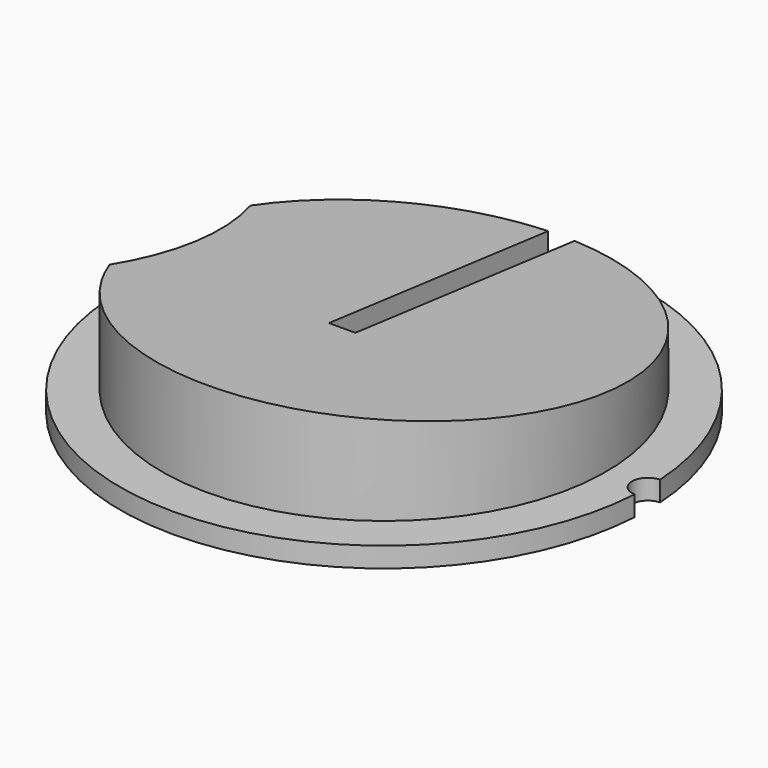
from build123d import *

# Parameters (mm, degrees)
F1_DEPTH = 2.413
F3_DEPTH = 25.4
F5_DEPTH = 31.75
F7_DEPTH = 25.4


with BuildPart() as f1:
    # F0 (on Top) → F1 (new body)
    with BuildSketch(Plane.XY):
        with BuildLine():
            ThreePointArc((31.629235, -1.904139), (29.7815, 0), (31.629235, 1.904139))
            ThreePointArc((31.629235, 1.904139), (0, 31.6865), (-31.629235, 1.904139))
            ThreePointArc((-31.629235, 1.904139), (-29.7815, 0), (-31.629235, -1.904139))
            ThreePointArc((-31.629235, -1.904139), (0, -31.6865), (31.629235, -1.904139))
        make_face()
    extrude(amount=F1_DEPTH)

    # F2 (on face) → F3 (join)
    with BuildSketch(Plane.XY.offset(2.413)):
        with BuildLine():
            ThreePointArc((-24.485298, 10.571618), (-22.5425, 0), (-24.485298, -10.571618))
            ThreePointArc((-24.485298, -10.571618), (26.67, 0), (-24.485298, 10.571618))
        make_face()
    extrude(amount=F3_DEPTH)

    # F4 (on Right) → F5 (cut, symmetric)
    with BuildSketch(Plane.YZ):
        Polygon((-28.575, 36.80041), (-28.575, 13.97), (28.575, 7.62), (28.575, 36.80041), align=None)
    extrude(amount=F5_DEPTH, both=True, mode=Mode.SUBTRACT)

    # F6 (on face) → F7 (cut)
    with BuildSketch(Plane(origin=(0, 0, 0), x_dir=(1, 0, 0), z_dir=(0, 0, -1))):
        with BuildLine():
            Line((-1.5875, 6.2865), (-1.5875, -31.646708))
            ThreePointArc((-1.5875, -31.646708), (0, -31.6865), (1.5875, -31.646708))
            Line((1.5875, -31.646708), (1.5875, 6.2865))
            Line((1.5875, 6.2865), (-1.5875, 6.2865))
        make_face()
        with BuildLine():
            Line((-1.5875, -31.646708), (-1.5875, -44.5135))
            Line((-1.5875, -44.5135), (1.5875, -44.5135))
            Line((1.5875, -44.5135), (1.5875, -31.646708))
            ThreePointArc((1.5875, -31.646708), (0, -31.6865), (-1.5875, -31.646708))
        make_face()
    extrude(amount=-F7_DEPTH, mode=Mode.SUBTRACT)


solid = f1.part
